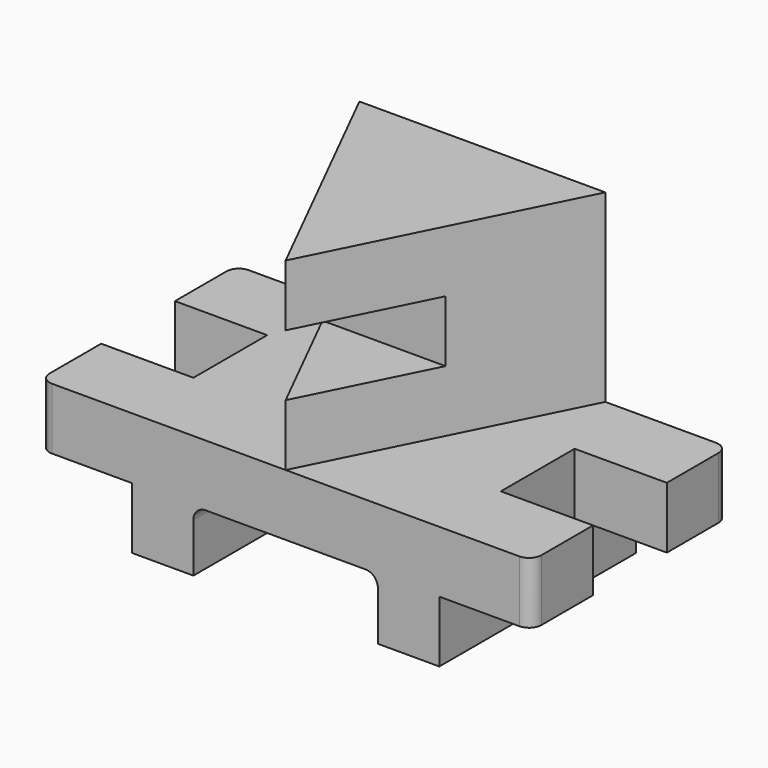
from build123d import *

# Parameters (mm, degrees)
F0_W      = 203.2
F0_H      = 25.4
F1_DEPTH  = 50.8
F2_R      = 5.08
F4_DEPTH  = 76.2
F5_W      = 101.6
F5_H      = 25.4
F6_DEPTH  = 63.5
F7_W      = 50.8
F7_H      = 25.4
F8_DEPTH  = 50.801
F9_W      = 38.1
F9_H      = 25.4
F10_DEPTH = 38.1
F11_W     = 38.1
F11_H     = 25.4
F12_DEPTH = 38.1
F13_W     = 76.2
F13_H     = 25.4
F14_DEPTH = 101.601
F15_R     = 5.08


with BuildPart() as f1:
    # F0 (on Front) → F1 (new body, symmetric)
    with BuildSketch(Plane.XZ):
        with Locations((0, 12.7)):
            Rectangle(F0_W, F0_H)
    extrude(amount=F1_DEPTH, both=True)

    # F2
    f2_edges = [f1.edges().sort_by_distance(p)[0] for p in [
        (101.6, -50.8, 12.7),
        (101.6, 50.8, 12.7),
        (-101.6, -50.8, 12.7),
        (-101.6, 50.8, 12.7),
    ]]
    fillet(f2_edges, radius=F2_R)

    # F3 (on face) → F4 (join)
    with BuildSketch(Plane.XY.offset(25.4)):
        Polygon((50.8, 50.8), (-50.8, 50.8), (0, -50.8), align=None)
    extrude(amount=F4_DEPTH)

    # F5 (on Right) → F6 (join, symmetric)
    with BuildSketch(Plane.YZ):
        with Locations((0, -12.7)):
            Rectangle(F5_W, F5_H)
    extrude(amount=F6_DEPTH, both=True)

    # F7 (on Front) → F8 (cut, through all)
    with BuildSketch(Plane.XZ):
        with Locations((0, 63.5)):
            Rectangle(F7_W, F7_H)
    extrude(amount=F8_DEPTH, mode=Mode.SUBTRACT)

    # F9 (on face) → F10 (cut)
    with BuildSketch(Plane(origin=(-101.6, 0, 0), x_dir=(0, -1, 0), z_dir=(-1, 0, 0))):
        with Locations((0, 12.7)):
            Rectangle(F9_W, F9_H)
    extrude(amount=-F10_DEPTH, mode=Mode.SUBTRACT)

    # F11 (on face) → F12 (cut)
    with BuildSketch(Plane.YZ.offset(101.6)):
        with Locations((0, 12.7)):
            Rectangle(F11_W, F11_H)
    extrude(amount=-F12_DEPTH, mode=Mode.SUBTRACT)

    # F13 (on face) → F14 (cut, through all)
    with BuildSketch(Plane.XZ.offset(50.8)):
        with Locations((0, -12.7)):
            Rectangle(F13_W, F13_H)
    extrude(amount=-F14_DEPTH, mode=Mode.SUBTRACT)

    # F15
    f15_edges = [f1.edges().sort_by_distance(p)[0] for p in [
        (-38.1, 0, 0),
        (38.1, 0, 0),
    ]]
    fillet(f15_edges, radius=F15_R)


solid = f1.part
